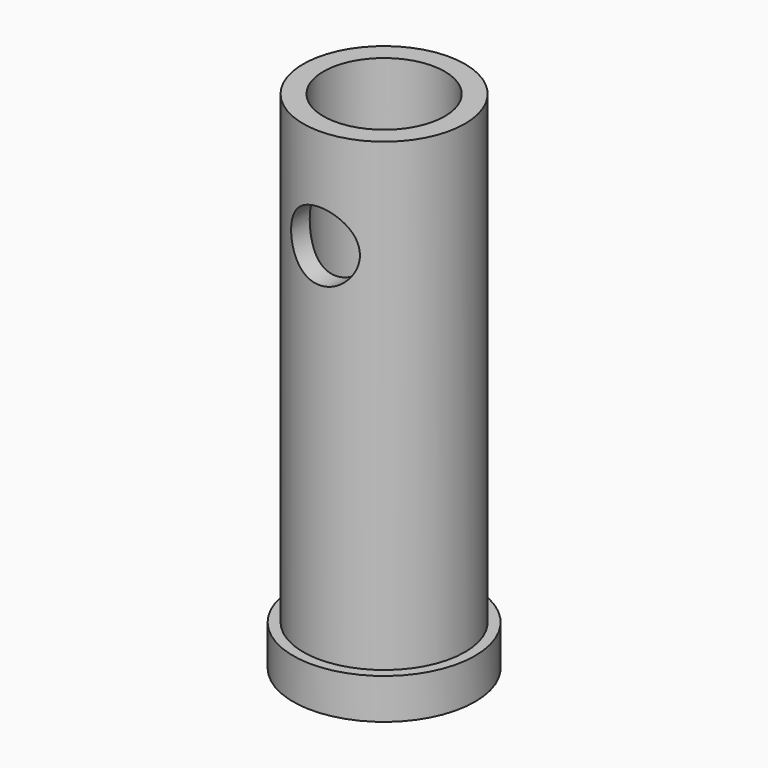
from build123d import *

# Parameters (mm, degrees)
F0_R     = 4
F0_R_2   = 3
F1_DEPTH = 25
F0_R_3   = 4.5
F2_DEPTH = 2
F5_D     = 3.4


with BuildPart() as f1:
    # F0 (on Top) → F1 (new body)
    with BuildSketch(Plane.XY):
        Circle(F0_R)
        Circle(F0_R_2, mode=Mode.SUBTRACT)
    extrude(amount=F1_DEPTH)

    # F0 (on Top) → F2 (join)
    with BuildSketch(Plane.XY):
        Circle(F0_R_3)
        Circle(F0_R, mode=Mode.SUBTRACT)
    extrude(amount=F2_DEPTH)

    # F5 (through all)
    with Locations(Plane.XZ.offset(4)):
        with Locations((0, 20)):
            Hole(F5_D / 2)


solid = f1.part
